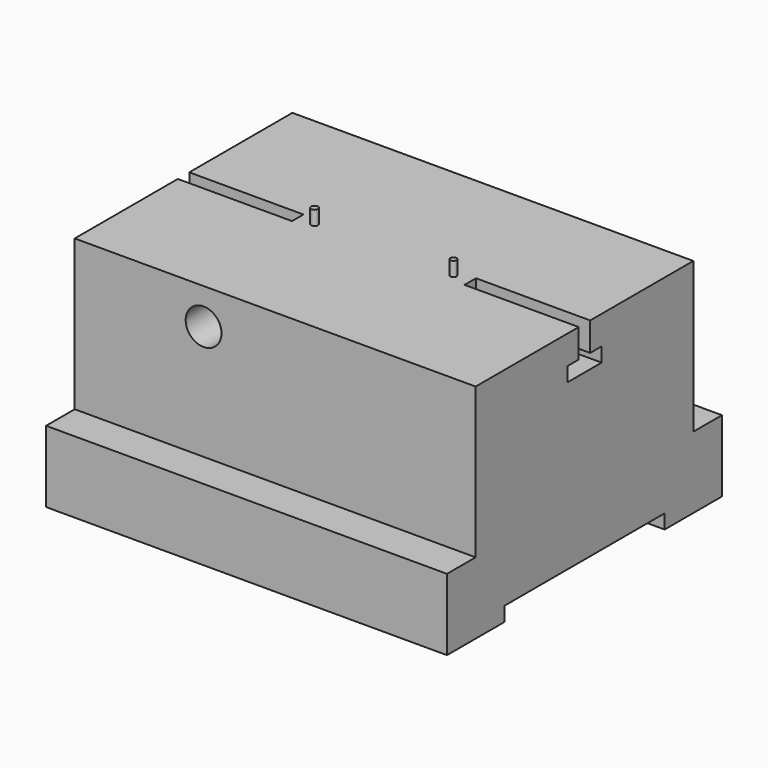
from build123d import *

# Parameters (mm, degrees)
F0_W      = 56
F0_H      = 48
F1_DEPTH  = 31
F2_R      = 0.475
F2_R_2    = 0.425
F3_DEPTH  = 2
F6_DEPTH  = 15.95
F7_DEPTH  = 15.95
F8_R      = 2.5
F9_DEPTH  = 10
F11_DEPTH = 56.001
F12_R     = 2
F13_DEPTH = 20
F14_R     = 4
F15_DEPTH = 14


with BuildPart() as f1:
    # F0 (on Top) → F1 (new body)
    with BuildSketch(Plane.XY):
        with Locations((28, 24)):
            Rectangle(F0_W, F0_H)
    extrude(amount=-F1_DEPTH)

    # F2 (on Top) → F3 (join)
    with BuildSketch(Plane.XY):
        with Locations((18.3, 24)):
            Circle(F2_R)
        with Locations((37.7, 24)):
            Circle(F2_R_2)
    extrude(amount=F3_DEPTH)

    # F4 (on face) → F6 (cut)
    with BuildSketch(Plane.YZ.offset(56)):
        Polygon((25, 0), (23, 0), (23, -4), (21, -4), (21, -6), (27, -6), (27, -4), (25, -4), align=None)
    extrude(amount=-F6_DEPTH, mode=Mode.SUBTRACT)

    # F5 (on face) → F7 (cut)
    with BuildSketch(Plane(origin=(0, 0, 0), x_dir=(0, -1, 0), z_dir=(-1, 0, 0))):
        Polygon((-23, 0), (-25, 0), (-25, -4), (-27, -4), (-27, -6), (-21, -6), (-21, -4), (-23, -4), align=None)
    extrude(amount=-F7_DEPTH, mode=Mode.SUBTRACT)

    # F8 (on face) → F9 (cut)
    with BuildSketch(Plane.XZ):
        with Locations((18, -5)):
            Circle(F8_R)
    extrude(amount=-F9_DEPTH, mode=Mode.SUBTRACT)

    # F10 (on face) → F11 (cut, through all)
    with BuildSketch(Plane.YZ.offset(56)):
        Polygon((5, 0), (0, 0), (-4.974183, 0), (-4.974183, -37.207626), (53.682573, -37.207626), (53.682573, 0), (48, 0), (43, 0), (43, -21), (48, -21), (48, -31), (38, -31), (38, -29), (10, -29), (10, -31), (0, -31), (0, -21), (5, -21), align=None)
    extrude(amount=-F11_DEPTH, mode=Mode.SUBTRACT)

    # F12 (on face) → F13 (cut)
    with BuildSketch(Plane(origin=(0, 43, 0), x_dir=(-1, 0, 0), z_dir=(0, 1, 0))):
        with Locations((-48.05, -5)):
            Circle(F12_R)
        with Locations((-7.95, -5)):
            Circle(F12_R)
    extrude(amount=-F13_DEPTH, mode=Mode.SUBTRACT)

    # F14 (on face) → F15 (cut)
    with BuildSketch(Plane(origin=(0, 43, 0), x_dir=(-1, 0, 0), z_dir=(0, 1, 0))):
        with Locations((-48.05, -5)):
            Circle(F14_R)
        with Locations((-7.95, -5)):
            Circle(F14_R)
    extrude(amount=-F15_DEPTH, mode=Mode.SUBTRACT)


solid = f1.part
